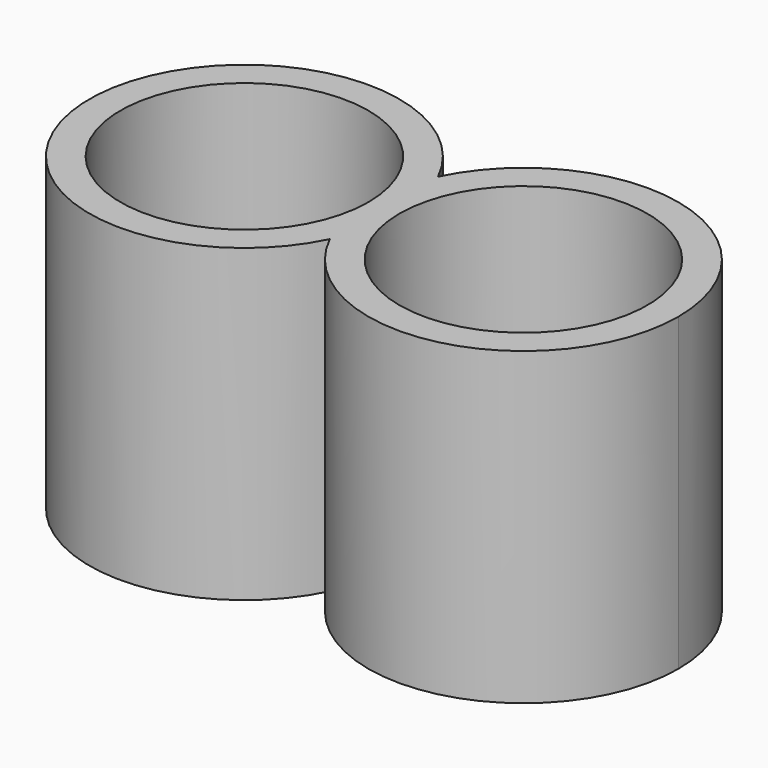
from build123d import *

# Parameters (mm, degrees)
F0_R     = 4
F1_DEPTH = 10


with BuildPart() as f1:
    # F0 (on Top) → F1 (new body)
    with BuildSketch(Plane.XY):
        with BuildLine():
            ThreePointArc((4.5, -2.1794494718), (4.8733971724, -1.1180339887), (5, 0))
            ThreePointArc((5, 0), (4.8733971724, 1.1180339887), (4.5, 2.1794494718))
            ThreePointArc((4.5, 2.1794494718), (4.1266028276, 1.1180339887), (4, 0))
            ThreePointArc((4, 0), (4.1266028276, -1.1180339887), (4.5, -2.1794494718))
        make_face()
        with BuildLine():
            ThreePointArc((4.5, 2.1794494718), (4.8733971724, 1.1180339887), (5, 0))
            ThreePointArc((5, 0), (4.8733971724, -1.1180339887), (4.5, -2.1794494718))
            ThreePointArc((4.5, -2.1794494718), (10.1180339887, -4.8733971724), (14, 0))
            ThreePointArc((14, 0), (10.1180339887, 4.8733971724), (4.5, 2.1794494718))
        make_face()
        with BuildLine():
            ThreePointArc((13, 0), (9, -4), (5, 0))
            ThreePointArc((5, 0), (9, 4), (13, 0))
        make_face(mode=Mode.SUBTRACT)
        with BuildLine():
            ThreePointArc((4, 0), (4.1266028276, 1.1180339887), (4.5, 2.1794494718))
            ThreePointArc((4.5, 2.1794494718), (-5, 0), (4.5, -2.1794494718))
            ThreePointArc((4.5, -2.1794494718), (4.1266028276, -1.1180339887), (4, 0))
        make_face()
        Circle(F0_R, mode=Mode.SUBTRACT)
        with BuildLine():
            ThreePointArc((4.5, 2.1794494718), (4.8733971724, 1.1180339887), (5, 0))
            ThreePointArc((5, 0), (4.8733971724, -1.1180339887), (4.5, -2.1794494718))
            ThreePointArc((4.5, -2.1794494718), (10.1180339887, -4.8733971724), (14, 0))
            ThreePointArc((14, 0), (10.1180339887, 4.8733971724), (4.5, 2.1794494718))
        make_face()
        with BuildLine():
            ThreePointArc((13, 0), (9, -4), (5, 0))
            ThreePointArc((5, 0), (9, 4), (13, 0))
        make_face(mode=Mode.SUBTRACT)
    extrude(amount=F1_DEPTH)


solid = f1.part
